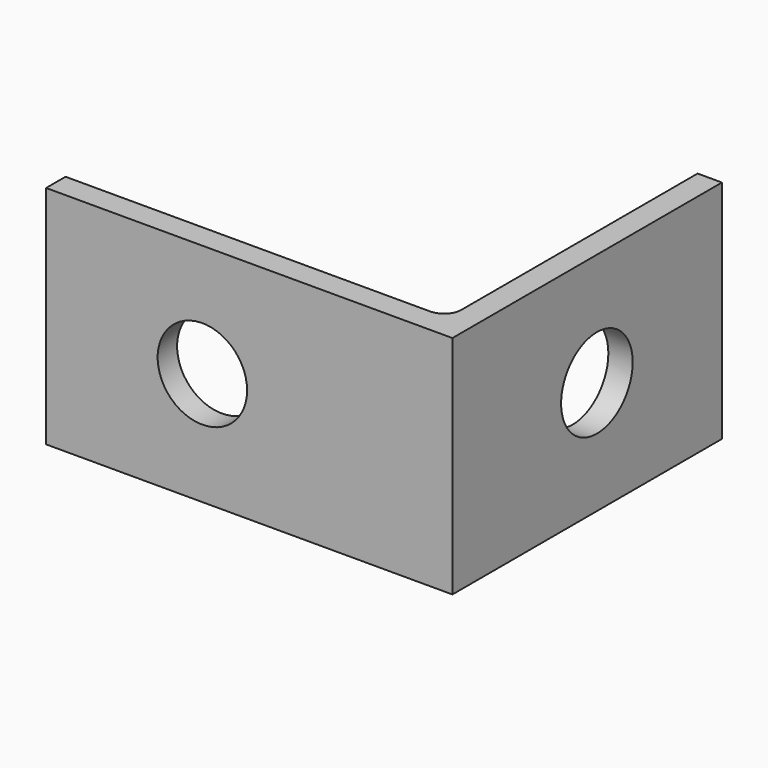
from build123d import *

# Parameters (mm, degrees)
F1_DEPTH = 65
F2_R     = 5
F3_R     = 12.875
F4_DEPTH = 7
F5_R     = 12.875
F6_DEPTH = 7


with BuildPart() as f1:
    # F0 (on Top) → F1 (new body)
    with BuildSketch(Plane.XY):
        Polygon((0, 0), (-110, 0), (-110, -7), (7, -7), (7, 90), (0, 90), align=None)
    extrude(amount=F1_DEPTH)

    # F2
    f2_edges = [f1.edges().sort_by_distance(p)[0] for p in [
        (0, 0, 32.5),
    ]]
    fillet(f2_edges, radius=F2_R)

    # F3 (on face) → F4 (cut)
    with BuildSketch(Plane.YZ.offset(7)):
        with Locations((45, 32.5)):
            Circle(F3_R)
    extrude(amount=-F4_DEPTH, mode=Mode.SUBTRACT)

    # F5 (on face) → F6 (cut)
    with BuildSketch(Plane.XZ.offset(7)):
        with Locations((-65, 32.5)):
            Circle(F5_R)
    extrude(amount=-F6_DEPTH, mode=Mode.SUBTRACT)


solid = f1.part
